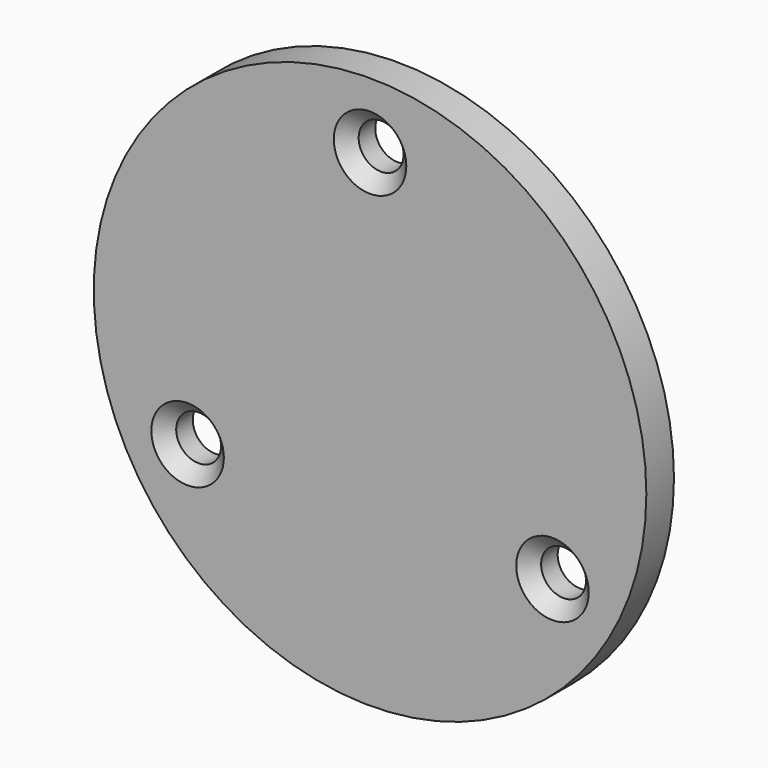
from build123d import *

# Parameters (mm, degrees)
F0_R     = 40
F0_R_2   = 3.25
F1_DEPTH = 5
F2_SIZE  = 2


with BuildPart() as f1:
    # F0 (on Front) → F1 (new body)
    with BuildSketch(Plane.XZ):
        Circle(F0_R)
        with Locations((-26.413775, -15.25)):
            Circle(F0_R_2, mode=Mode.SUBTRACT)
        with Locations((26.413775, -15.25)):
            Circle(F0_R_2, mode=Mode.SUBTRACT)
        with Locations((0, 30.5)):
            Circle(F0_R_2, mode=Mode.SUBTRACT)
    extrude(amount=F1_DEPTH)

    # F2
    f2_edges = [f1.edges().sort_by_distance(p)[0] for p in [
        (-3.25, -5, 30.5),
        (23.163775, -5, -15.25),
        (-29.663775, -5, -15.25),
    ]]
    chamfer(f2_edges, length=F2_SIZE)


solid = f1.part
